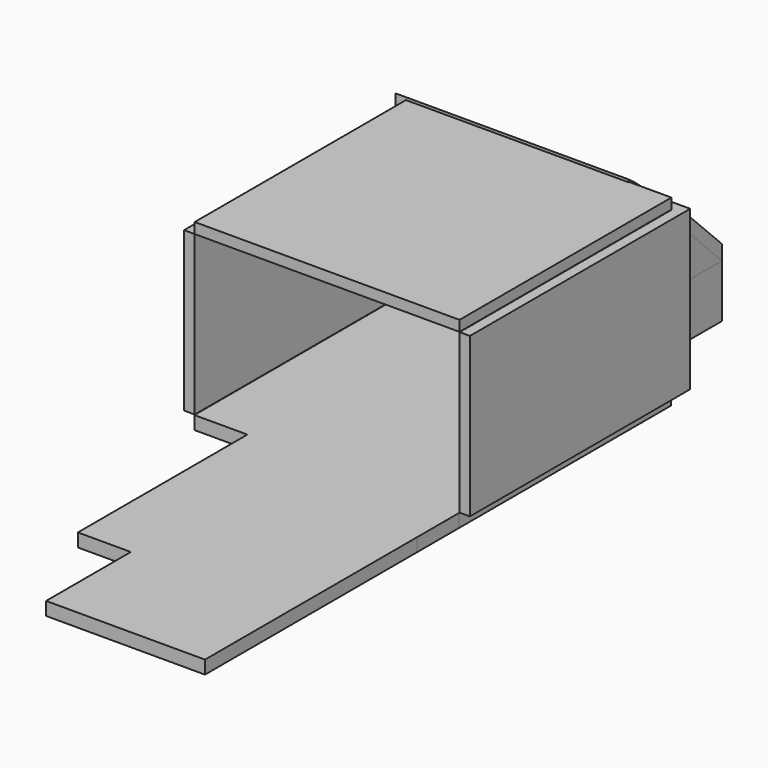
from build123d import *

# Parameters (mm, degrees)
F1_DEPTH  = 6.35
F2_DEPTH  = 6.35
F3_DEPTH  = 6.35
F4_DEPTH  = 6.35
F6_DEPTH  = 50.8
F5_W      = 25.4
F5_H      = 25.4
F7_DEPTH  = 25.4
F9_DEPTH  = 76.2
F8_W      = 5.08
F8_H      = 126.8470585346
F10_W     = 25.4
F10_H     = 25.4
F11_DEPTH = 114.3
F13_DEPTH = 5.08
F14_DEPTH = 111.76
F16_DEPTH = 5.08
F17_W     = 127
F17_H     = 5.08
F18_DEPTH = 127


with BuildPart() as f1:
    # F0 (on Top) → F1 (new body)
    with BuildSketch(Plane.XY):
        Polygon((-63.5, 114.3), (-63.5, 63.5), (38.1000001535, 63.5), (38.1000001535, 88.9), (38.1000001535, 114.3), (-38.1, 114.3), align=None)
    extrude(amount=F1_DEPTH)

    # F0 (on Top) → F2 (join)
    with BuildSketch(Plane.XY):
        Polygon((38.1000001535, 63.5), (-63.5, 63.5), (-63.5, -63.5), (-38.0999998465, -63.5), (-12.6999998465, -63.5), (12.7000001535, -63.5), (63.5, -63.5), (63.5, 63.5), align=None)
    extrude(amount=F2_DEPTH)

    # F0 (on Top) → F3 (join)
    with BuildSketch(Plane.XY):
        Polygon((-12.6999998465, -63.5), (-38.0999998465, -63.5), (-38.0999998465, -88.9), (-38.0999998465, -114.3), (-38.0999998465, -165.1), (-12.6999998465, -165.1), (63.5000001535, -165.1), (63.5000001535, -88.9), (63.5, -63.5), (12.7000001535, -63.5), align=None)
    extrude(amount=F3_DEPTH)

    # F0 (on Top) → F4 (join)
    with BuildSketch(Plane.XY):
        Polygon((63.5000001535, -215.9), (63.5000001535, -165.1), (-12.6999998465, -165.1), (-12.6999998465, -190.5), (-12.6999998465, -215.9), align=None)
    extrude(amount=F4_DEPTH)

    # F5 (on face) → F7 (cut)
    with BuildSketch(Plane.XY.offset(6.35)):
        with Locations((25.4000001535, 101.6)):
            Rectangle(F5_W, F5_H)
        with Locations((25.4000001535, 76.2)):
            Rectangle(F5_W, F5_H)
    extrude(amount=-F7_DEPTH, mode=Mode.SUBTRACT)


with BuildPart() as f6:
    # F5 (on face) → F6 (new body)
    with BuildSketch(Plane.XY.offset(6.35)):
        Polygon((-63.5, 63.5), (-63.5, 114.3), (12.7000001535, 114.3), (38.1000001535, 114.3), (38.1000001535, 88.9), (38.1000001535, 63.5), (43.1800001535, 63.5), (43.1800001535, 119.38), (-68.58, 119.38), (-68.58, 63.5), align=None)
    extrude(amount=F6_DEPTH)

    # F10 (on face) → F11 (cut)
    with BuildSketch(Plane(origin=(-68.58, 0, 0), x_dir=(0, -1, 0), z_dir=(-1, 0, 0))):
        with Locations((-106.68, 44.45)):
            Rectangle(F10_W, F10_H)
    extrude(amount=-F11_DEPTH, mode=Mode.SUBTRACT)


with BuildPart() as f9:
    # F8 (on face) → F9 (new body)
    with BuildSketch(Plane.XY.offset(6.35)):
        Polygon((37.9468661904, 68.8225999475), (37.9468661904, 63.7378320098), (63.3468661904, 63.7378320098), (63.3468661904, 63.5), (63.5, 63.5), (63.5, -63.2621679902), (68.4268661904, -63.2621679902), (68.4268661904, 68.8178320098), (43.0268661904, 68.8178320098), align=None)
    extrude(amount=F9_DEPTH)


with BuildPart() as f9b:
    # F8 (on face) → F9, piece 2 (new body)
    with BuildSketch(Plane.XY.offset(6.35)):
        with Locations((-66.1931338096, 0.3143027425)):
            Rectangle(F8_W, F8_H)
    extrude(amount=F9_DEPTH)


with BuildPart() as f13:
    # F12 (on face) → F13 (new body)
    with BuildSketch(Plane(origin=(-68.58, 0, 0), x_dir=(0, -1, 0), z_dir=(-1, 0, 0))):
        Polygon((-93.98, 31.75), (-93.98, 57.15), (-119.38, 31.75), align=None)
    extrude(amount=-F13_DEPTH)


with BuildPart() as f13b:
    # F12 (on face) → F13, piece 2 (new body)
    with BuildSketch(Plane(origin=(-68.58, 0, 0), x_dir=(0, -1, 0), z_dir=(-1, 0, 0))):
        Polygon((-63.5, 82.55), (-93.98, 57.15), (-63.5, 57.15), align=None)
    extrude(amount=-F13_DEPTH)


with BuildPart() as f14:
    # F12 (on face) → F14 (new body)
    with BuildSketch(Plane(origin=(-68.58, 0, 0), x_dir=(0, -1, 0), z_dir=(-1, 0, 0))):
        Polygon((-119.38, 31.75), (-93.98, 57.15), (-63.5, 82.55), (-63.5, 88.8746455312), (-66.7521367503, 86.4525641004), (-97.4091610275, 60.9050438693), (-119.38, 38.9342048969), align=None)
    extrude(amount=-F14_DEPTH)


with BuildPart() as f16:
    # F15 (on face) → F16 (new body)
    with BuildSketch(Plane.YZ.offset(43.1800001535)):
        Polygon((63.5, 57.15), (93.98, 57.15), (63.5, 82.55), align=None)
    extrude(amount=-F16_DEPTH)


with BuildPart() as f16b:
    # F15 (on face) → F16, piece 2 (new body)
    with BuildSketch(Plane.YZ.offset(43.1800001535)):
        Polygon((119.38, 31.75), (93.98, 57.15), (93.98, 31.75), align=None)
    extrude(amount=-F16_DEPTH)


with BuildPart() as f18:
    # F17 (on face) → F18 (new body)
    with BuildSketch(Plane.XZ.offset(63.1092265248)):
        with Locations((-0.1531338096, 85.09)):
            Rectangle(F17_W, F17_H)
    extrude(amount=-F18_DEPTH)


solid = Compound([f1.part, f6.part, f9.part, f9b.part, f13.part, f13b.part, f14.part, f16.part, f16b.part, f18.part])
